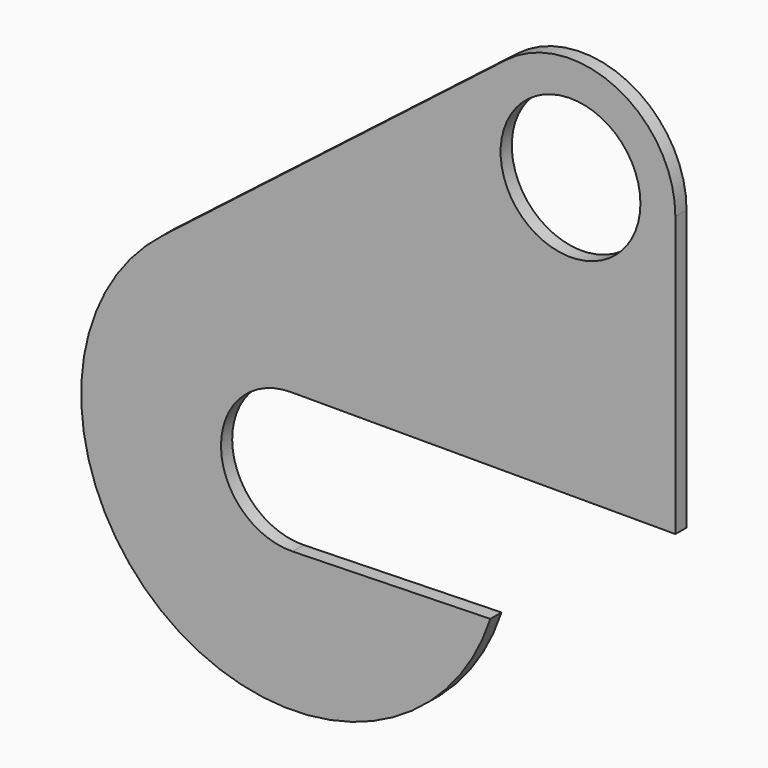
from build123d import *

# Parameters (mm, degrees)
F0_R     = 10
F1_DEPTH = 2


with BuildPart() as f1:
    # F0 (on Front) → F1 (new body)
    with BuildSketch(Plane.XZ):
        with BuildLine():
            ThreePointArc((-62.534281, -2.119643), (-35.69599, 2.957285), (-15.866047, -15.826814))
            Line((-15.866047, -15.826814), (10.849682, -15.826814))
            Line((10.849682, -15.826814), (10.849682, 24.173186))
            ThreePointArc((10.849682, 24.173186), (-10.750328, 10.703225), (-13.3423, 36.026771))
            Line((-13.3423, 36.026771), (-62.534281, -2.119643))
        make_face()
        with BuildLine():
            ThreePointArc((10.849682, 24.173186), (2.449692, 37.643148), (-13.3423, 36.026771))
            ThreePointArc((-13.3423, 36.026771), (-10.750328, 10.703225), (10.849682, 24.173186))
        make_face()
        with Locations((-4.150318, 24.173186)):
            Circle(F0_R, mode=Mode.SUBTRACT)
        with BuildLine():
            Line((-44.150318, -15.826814), (-15.866047, -15.826814))
            ThreePointArc((-15.866047, -15.826814), (-35.69599, 2.957285), (-62.534281, -2.119643))
            ThreePointArc((-62.534281, -2.119643), (-61.408556, -50.365624), (-15.62346, -35.1122))
            Line((-15.62346, -35.1122), (-43.898783, -35.82365))
            ThreePointArc((-43.898783, -35.82365), (-54.149527, -25.952591), (-44.150318, -15.826814))
        make_face()
    extrude(amount=F1_DEPTH)


solid = f1.part
